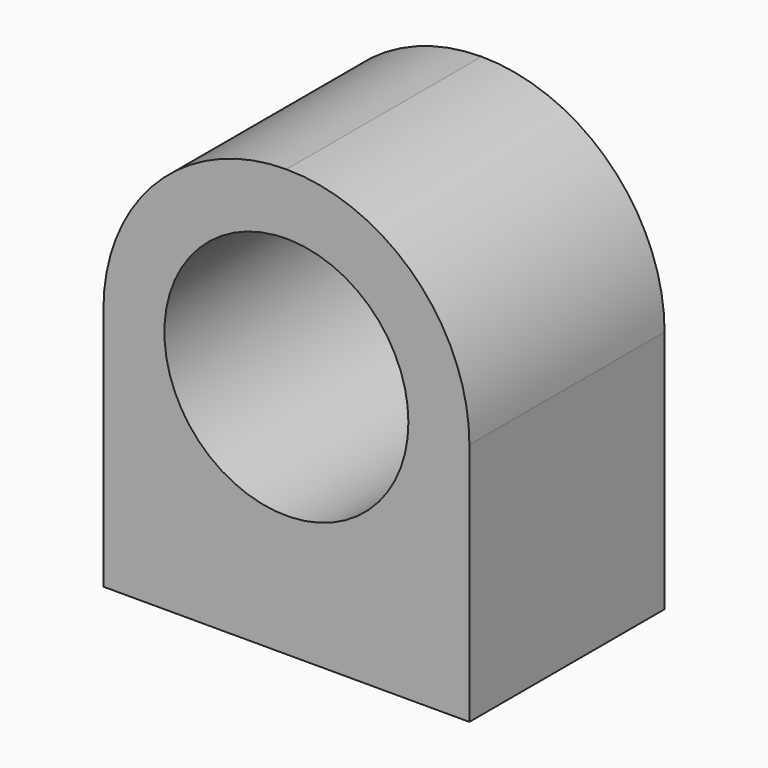
from build123d import *

# Parameters (mm, degrees)
F1_DEPTH = 25.4
F2_R     = 12.7
F3_DEPTH = 61.57864
F4_R     = 3.175
F5_DEPTH = 12.7


with BuildPart() as f1:
    # F0 (on Front) → F1 (new body)
    with BuildSketch(Plane.XZ):
        with BuildLine():
            Line((-7.068471, 25.4), (-7.068471, 0))
            Line((-7.068471, 0), (31.031529, 0))
            Line((31.031529, 0), (31.031529, 25.4))
            ThreePointArc((31.031529, 25.4), (25.451913, 38.870384), (11.981529, 44.45))
            ThreePointArc((11.981529, 44.45), (-1.488855, 38.870384), (-7.068471, 25.4))
        make_face()
    extrude(amount=F1_DEPTH)

    # F2 (on face) → F3 (cut)
    with BuildSketch(Plane.XZ.offset(25.4)):
        with Locations((11.981529, 25.4)):
            Circle(F2_R)
    extrude(amount=-F3_DEPTH, mode=Mode.SUBTRACT)

    # F4 (on face) → F5 (cut)
    with BuildSketch(Plane(origin=(0, 0, 0), x_dir=(1, 0, 0), z_dir=(0, 0, -1))):
        with Locations((-0.718471, 12.7)):
            Circle(F4_R)
        with Locations((24.681529, 12.7)):
            Circle(F4_R)
    extrude(amount=-F5_DEPTH, mode=Mode.SUBTRACT)


solid = f1.part
